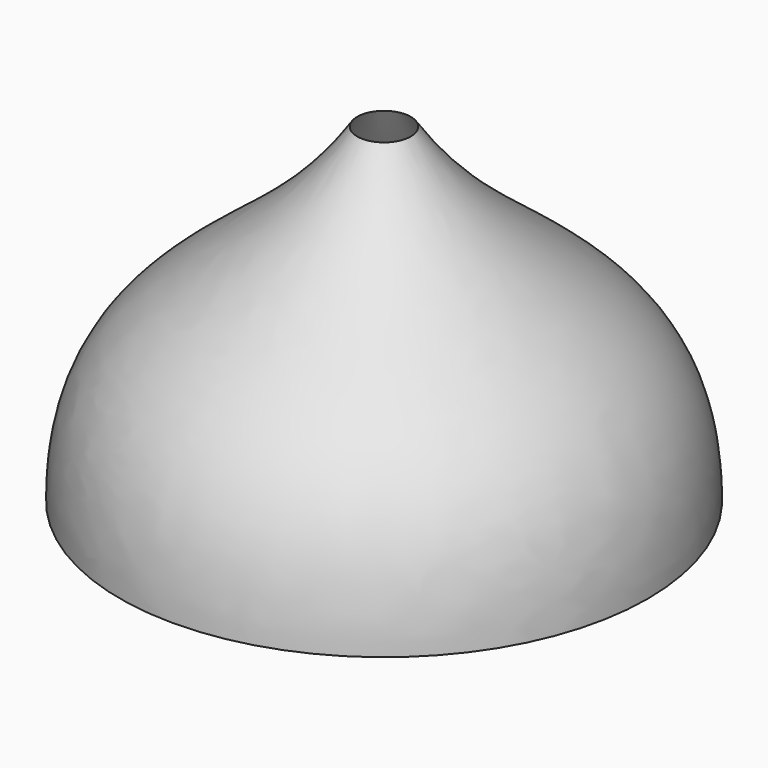
from build123d import *


with BuildPart() as f1:
    # F0 (on Right) → F1 (revolve)
    with BuildSketch(Plane.YZ):
        with BuildLine():
            Line((-48, 0), (0, 100))
            add(Edge.make_bspline(
                [(0, 100), (-24.96, 48), (-70, 55), (-70, 0)],
                knots=[0, 0, 0, 0, 122.065556, 122.065556, 122.065556, 122.065556], degree=3))
            Line((-70, 0), (-48, 0))
        make_face()
        Polygon((-48, 0), (0, 0), (0, 100), align=None)
    revolve(axis=Axis((0, 0, 50), (0, 0, 1)))

    # F2 (on Right) → F3 (revolve, cut)
    with BuildSketch(Plane.YZ):
        with BuildLine():
            add(Edge.make_bspline(
                [(-70, 0), (-57.518434, 36.081918), (-36.366485, 32.827772), (0, 100)],
                knots=[0, 0, 0, 0, 122.065556, 122.065556, 122.065556, 122.065556], degree=3))
            Line((-70, 0), (0, 0))
            Line((0, 0), (0, 100))
        make_face()
    revolve(axis=Axis((0, 0, 50), (0, 0, 1)), mode=Mode.SUBTRACT)


solid = f1.part
